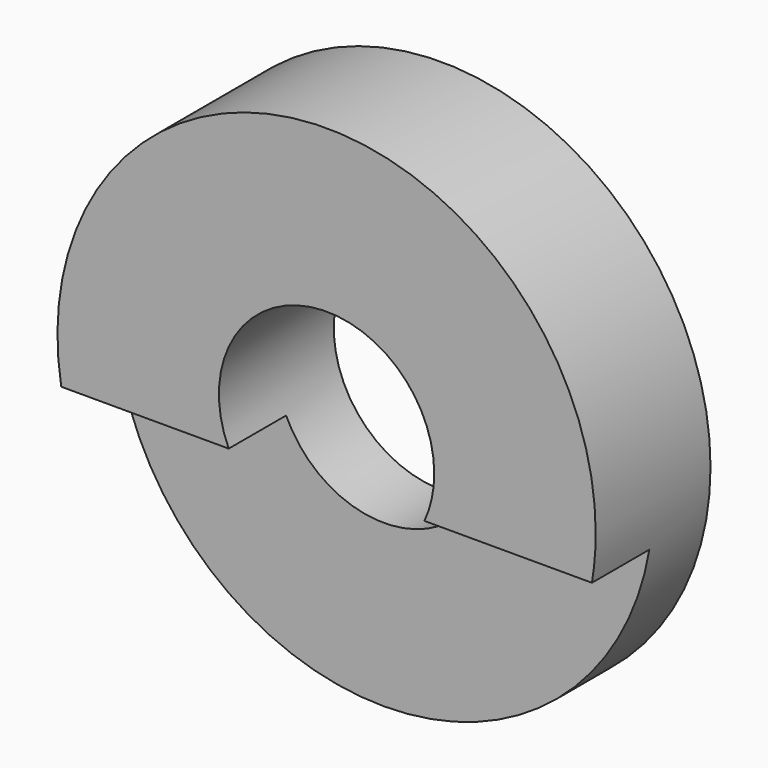
from build123d import *

# Parameters (mm, degrees)
F0_R     = 11.90625
F1_DEPTH = 6.35
F2_R     = 4.7625
F3_DEPTH = 25.4
F5_DEPTH = 3.175


with BuildPart() as f1:
    # F0 (on Front) → F1 (new body)
    with BuildSketch(Plane.XZ):
        Circle(F0_R)
    extrude(amount=F1_DEPTH)

    # F2 (on face) → F3 (cut)
    with BuildSketch(Plane.XZ.offset(6.35)):
        Circle(F2_R)
    extrude(amount=-F3_DEPTH, mode=Mode.SUBTRACT)

    # F4 (on face) → F5 (cut)
    with BuildSketch(Plane.XZ.offset(6.35)):
        with BuildLine():
            Line((-4.329395, -1.984375), (-11.739721, -1.984375))
            ThreePointArc((-11.739721, -1.984375), (0, -11.90625), (11.739721, -1.984375))
            Line((11.739721, -1.984375), (4.329395, -1.984375))
            ThreePointArc((4.329395, -1.984375), (0, -4.7625), (-4.329395, -1.984375))
        make_face()
        with BuildLine():
            Line((4.329395, -1.984375), (-4.329395, -1.984375))
            ThreePointArc((-4.329395, -1.984375), (0, -4.7625), (4.329395, -1.984375))
        make_face()
    extrude(amount=-F5_DEPTH, mode=Mode.SUBTRACT)


solid = f1.part
